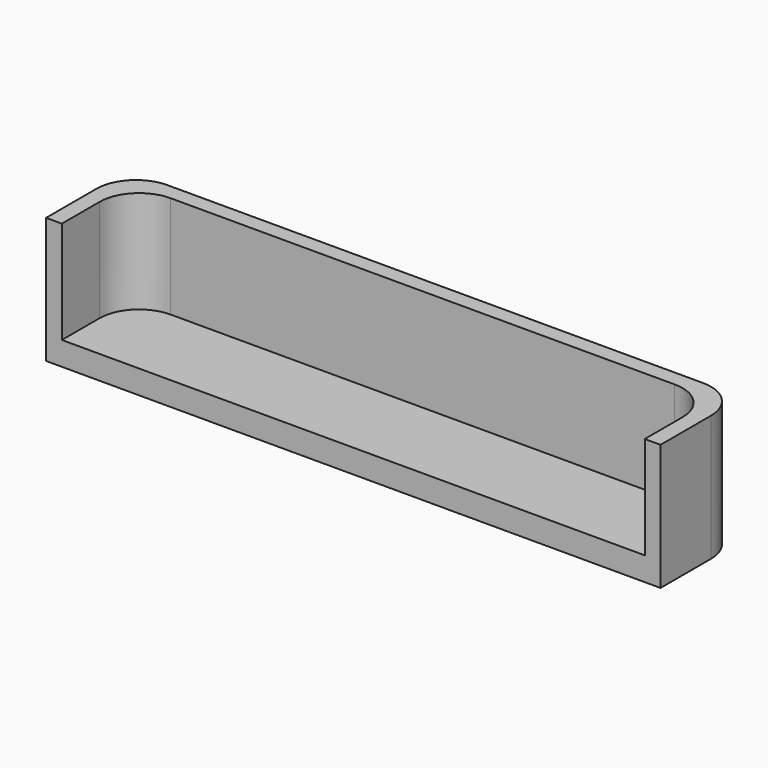
from build123d import *

# Parameters (mm, degrees)
BOX001_W     = 74
BOX001_H     = 13
BOX001_DEPTH = 14
FILLET007_R  = 5
FILLET008_R  = 5
BOX_W        = 78
BOX_H        = 13
BOX_DEPTH    = 16
FILLET_R     = 5
FILLET006_R  = 5


with BuildPart() as fillet008:
    # Box001 → Box001 (new body)
    with BuildSketch(Plane(origin=(-65, 17, -11.5), x_dir=(1, 0, 0), z_dir=(0, 0, 1))):
        with Locations((37, 6.5)):
            Rectangle(BOX001_W, BOX001_H)
    extrude(amount=BOX001_DEPTH)

    # Fillet007
    fillet007_edges = [fillet008.edges().sort_by_distance(p)[0] for p in [
        (9, 30, -4.5),
    ]]
    fillet(fillet007_edges, radius=FILLET007_R)

    # Fillet008
    fillet008_edges = [fillet008.edges().sort_by_distance(p)[0] for p in [
        (-65, 30, -4.5),
    ]]
    fillet(fillet008_edges, radius=FILLET008_R)


with BuildPart() as fillet008_1:
    # Fillet008 placement: moved
    add(fillet008.part.moved(Location((2, -2, 1))))


with BuildPart() as i2c_hosting:
    # Box → Box (new body)
    with BuildSketch(Plane(origin=(-65, 17, -13.5), x_dir=(1, 0, 0), z_dir=(0, 0, 1))):
        with Locations((39, 6.5)):
            Rectangle(BOX_W, BOX_H)
    extrude(amount=BOX_DEPTH)

    # Fillet
    fillet_edges = [i2c_hosting.edges().sort_by_distance(p)[0] for p in [
        (13, 30, -5.5),
    ]]
    fillet(fillet_edges, radius=FILLET_R)

    # Fillet006
    fillet006_edges = [i2c_hosting.edges().sort_by_distance(p)[0] for p in [
        (-65, 30, -5.5),
    ]]
    fillet(fillet006_edges, radius=FILLET006_R)

    # Cut: cut Fillet008
    add(fillet008_1.part, mode=Mode.SUBTRACT)


with BuildPart() as i2c_hosting_1:
    # Cut placement: moved
    add(i2c_hosting.part.moved(Location((-1.54, 0, 4.2))))


solid = i2c_hosting_1.part
